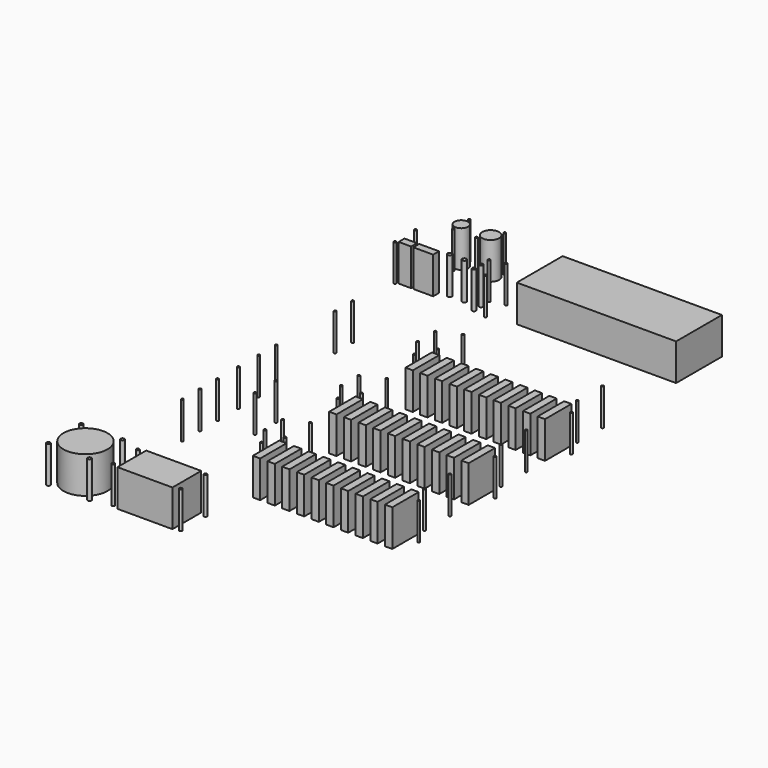
from build123d import *

# Parameters (mm, degrees)
SKETCH001_R         = 1.5
SKETCH001_R_2       = 3
SKETCH001_R_3       = 2.5
SKETCH001_R_4       = 1.6
SKETCH001_W         = 17
SKETCH001_H         = 10
SKETCH001_W_2       = 27
PAD_DEPTH           = 50
SKETCH002_R         = 1.5
SKETCH002_W         = 10
SKETCH002_H         = 45
PAD001_DEPTH        = 50
SKETCH002001_R      = 1.5
SKETCH002001_W      = 10
SKETCH002001_H      = 45
PAD002_DEPTH        = 50
SKETCH002002_R      = 1.5
SKETCH002002_W      = 10
SKETCH002002_H      = 45
PAD003_DEPTH        = 50
SKETCH002003_R      = 1.5
PAD004_DEPTH        = 50
SKETCH002004_R      = 1.5
PAD005_DEPTH        = 50
SKETCH002004001_R   = 1.5
PAD006_DEPTH        = 50
SKETCH002004002_R   = 1.5
PAD007_DEPTH        = 50
SKETCH002004003_W   = 217
SKETCH002004003_H   = 78
PAD008_DEPTH        = 50
SKETCH002004004_R   = 9.3
SKETCH002004004_R_2 = 1.5
SKETCH002004004_R_3 = 11.5
PAD009_DEPTH        = 50
SKETCH002004005_R   = 30
SKETCH002004005_R_2 = 2.5
SKETCH002004005_R_3 = 2
SKETCH002004005_W   = 75
SKETCH002004005_H   = 49
PAD010_DEPTH        = 50


with BuildPart() as pad:
    # Sketch001 → Pad (new body)
    with BuildSketch(Plane.XY):
        with Locations((169.861206, 79.608376)):
            Circle(SKETCH001_R)
        with Locations((169.861206, 44.608376)):
            Circle(SKETCH001_R)
        with Locations((293.361206, 79.608376)):
            Circle(SKETCH001_R)
        with Locations((293.361206, 44.608376)):
            Circle(SKETCH001_R)
        with Locations((233.361206, 58.608376)):
            Circle(SKETCH001_R_2)
        with Locations((253.361206, 58.608376)):
            Circle(SKETCH001_R_2)
        with Locations((274.361206, 48.608376)):
            Circle(SKETCH001_R_3)
        with Locations((274.361206, 60.608376)):
            Circle(SKETCH001_R_3)
        with Locations((274.361206, 74.608376)):
            Circle(SKETCH001_R_4)
        with Locations((181.861206, 51.608376)):
            Rectangle(SKETCH001_W, SKETCH001_H)
        with Locations((206.861206, 51.608376)):
            Rectangle(SKETCH001_W_2, SKETCH001_H)
    extrude(amount=PAD_DEPTH)


with BuildPart() as pad001:
    # Sketch002 → Pad001 (new body)
    with BuildSketch(Plane.XY):
        with Locations((360, -77)):
            Circle(SKETCH002_R)
        with Locations((360, -120)):
            Circle(SKETCH002_R)
        with Locations((550, -77)):
            Circle(SKETCH002_R)
        with Locations((550, -120)):
            Circle(SKETCH002_R)
        with Locations((348, -145)):
            Circle(SKETCH002_R)
        with Locations((562, -145)):
            Circle(SKETCH002_R)
        with Locations((545, -152.5)):
            Rectangle(SKETCH002_W, SKETCH002_H)
        with Locations((525, -152.5)):
            Rectangle(SKETCH002_W, SKETCH002_H)
        with Locations((505, -152.5)):
            Rectangle(SKETCH002_W, SKETCH002_H)
        with Locations((485, -152.5)):
            Rectangle(SKETCH002_W, SKETCH002_H)
        with Locations((465, -152.5)):
            Rectangle(SKETCH002_W, SKETCH002_H)
        with Locations((445, -152.5)):
            Rectangle(SKETCH002_W, SKETCH002_H)
        with Locations((425, -152.5)):
            Rectangle(SKETCH002_W, SKETCH002_H)
        with Locations((405, -152.5)):
            Rectangle(SKETCH002_W, SKETCH002_H)
        with Locations((385, -152.5)):
            Rectangle(SKETCH002_W, SKETCH002_H)
        with Locations((365, -152.5)):
            Rectangle(SKETCH002_W, SKETCH002_H)
    extrude(amount=PAD001_DEPTH)


with BuildPart() as pad002:
    # Sketch002001 → Pad002 (new body)
    with BuildSketch(Plane.XY):
        with Locations((360, -207)):
            Circle(SKETCH002001_R)
        with Locations((360, -250)):
            Circle(SKETCH002001_R)
        with Locations((550, -207)):
            Circle(SKETCH002001_R)
        with Locations((550, -250)):
            Circle(SKETCH002001_R)
        with Locations((348, -275)):
            Circle(SKETCH002001_R)
        with Locations((562, -275)):
            Circle(SKETCH002001_R)
        with Locations((545, -282.5)):
            Rectangle(SKETCH002001_W, SKETCH002001_H)
        with Locations((525, -282.5)):
            Rectangle(SKETCH002001_W, SKETCH002001_H)
        with Locations((505, -282.5)):
            Rectangle(SKETCH002001_W, SKETCH002001_H)
        with Locations((485, -282.5)):
            Rectangle(SKETCH002001_W, SKETCH002001_H)
        with Locations((465, -282.5)):
            Rectangle(SKETCH002001_W, SKETCH002001_H)
        with Locations((445, -282.5)):
            Rectangle(SKETCH002001_W, SKETCH002001_H)
        with Locations((425, -282.5)):
            Rectangle(SKETCH002001_W, SKETCH002001_H)
        with Locations((405, -282.5)):
            Rectangle(SKETCH002001_W, SKETCH002001_H)
        with Locations((385, -282.5)):
            Rectangle(SKETCH002001_W, SKETCH002001_H)
        with Locations((365, -282.5)):
            Rectangle(SKETCH002001_W, SKETCH002001_H)
    extrude(amount=PAD002_DEPTH)


with BuildPart() as pad003:
    # Sketch002002 → Pad003 (new body)
    with BuildSketch(Plane.XY):
        with Locations((360, -337)):
            Circle(SKETCH002002_R)
        with Locations((360, -380)):
            Circle(SKETCH002002_R)
        with Locations((550, -337)):
            Circle(SKETCH002002_R)
        with Locations((550, -380)):
            Circle(SKETCH002002_R)
        with Locations((348, -405)):
            Circle(SKETCH002002_R)
        with Locations((562, -405)):
            Circle(SKETCH002002_R)
        with Locations((545, -412.5)):
            Rectangle(SKETCH002002_W, SKETCH002002_H)
        with Locations((525, -412.5)):
            Rectangle(SKETCH002002_W, SKETCH002002_H)
        with Locations((505, -412.5)):
            Rectangle(SKETCH002002_W, SKETCH002002_H)
        with Locations((485, -412.5)):
            Rectangle(SKETCH002002_W, SKETCH002002_H)
        with Locations((465, -412.5)):
            Rectangle(SKETCH002002_W, SKETCH002002_H)
        with Locations((445, -412.5)):
            Rectangle(SKETCH002002_W, SKETCH002002_H)
        with Locations((425, -412.5)):
            Rectangle(SKETCH002002_W, SKETCH002002_H)
        with Locations((405, -412.5)):
            Rectangle(SKETCH002002_W, SKETCH002002_H)
        with Locations((385, -412.5)):
            Rectangle(SKETCH002002_W, SKETCH002002_H)
        with Locations((365, -412.5)):
            Rectangle(SKETCH002002_W, SKETCH002002_H)
    extrude(amount=PAD003_DEPTH)


with BuildPart() as pad004:
    # Sketch002003 → Pad004 (new body)
    with BuildSketch(Plane.XY):
        with Locations((220, -284.5)):
            Circle(SKETCH002003_R)
        with Locations((271, -284.5)):
            Circle(SKETCH002003_R)
        with Locations((271, -320)):
            Circle(SKETCH002003_R)
        with Locations((220, -320)):
            Circle(SKETCH002003_R)
    extrude(amount=PAD004_DEPTH)


with BuildPart() as pad005:
    # Sketch002004 → Pad005 (new body)
    with BuildSketch(Plane.XY):
        with Locations((220, -350)):
            Circle(SKETCH002004_R)
        with Locations((332.5, -350)):
            Circle(SKETCH002004_R)
        with Locations((332.5, -380)):
            Circle(SKETCH002004_R)
        with Locations((220, -380)):
            Circle(SKETCH002004_R)
    extrude(amount=PAD005_DEPTH)


with BuildPart() as pad006:
    # Sketch002004001 → Pad006 (new body)
    with BuildSketch(Plane.XY):
        with Locations((220, -220)):
            Circle(SKETCH002004001_R)
        with Locations((332.5, -220)):
            Circle(SKETCH002004001_R)
        with Locations((332.5, -250)):
            Circle(SKETCH002004001_R)
        with Locations((220, -250)):
            Circle(SKETCH002004001_R)
    extrude(amount=PAD006_DEPTH)


with BuildPart() as pad007:
    # Sketch002004002 → Pad007 (new body)
    with BuildSketch(Plane.XY):
        with Locations((220, -90)):
            Circle(SKETCH002004002_R)
        with Locations((332.5, -90)):
            Circle(SKETCH002004002_R)
        with Locations((332.5, -120)):
            Circle(SKETCH002004002_R)
        with Locations((220, -120)):
            Circle(SKETCH002004002_R)
    extrude(amount=PAD007_DEPTH)


with BuildPart() as pad008:
    # Sketch002004003 → Pad008 (new body)
    with BuildSketch(Plane.XY):
        with Locations((438.5, 91)):
            Rectangle(SKETCH002004003_W, SKETCH002004003_H)
    extrude(amount=PAD008_DEPTH)


with BuildPart() as pad009:
    # Sketch002004004 → Pad009 (new body)
    with BuildSketch(Plane.XY):
        with Locations((199.928818, 120.016884)):
            Circle(SKETCH002004004_R)
        with Locations((199.928818, 133.516884)):
            Circle(SKETCH002004004_R_2)
        with Locations((199.928818, 106.516884)):
            Circle(SKETCH002004004_R_2)
        with Locations((240, 120)):
            Circle(SKETCH002004004_R_3)
        with Locations((248.5, 133.5)):
            Circle(SKETCH002004004_R_2)
        with Locations((231.5, 106.5)):
            Circle(SKETCH002004004_R_2)
    extrude(amount=PAD009_DEPTH)


with BuildPart() as pad010:
    # Sketch002004005 → Pad010 (new body)
    with BuildSketch(Plane.XY):
        with Locations((200, -520)):
            Circle(SKETCH002004005_R)
        with Locations((172, -492)):
            Circle(SKETCH002004005_R_2)
        with Locations((228, -492)):
            Circle(SKETCH002004005_R_2)
        with Locations((172, -548)):
            Circle(SKETCH002004005_R_2)
        with Locations((228, -548)):
            Circle(SKETCH002004005_R_2)
        with Locations((255.377548, -499.911364)):
            Circle(SKETCH002004005_R_3)
        with Locations((255.377548, -541.911364)):
            Circle(SKETCH002004005_R_3)
        with Locations((347.377548, -499.911364)):
            Circle(SKETCH002004005_R_3)
        with Locations((347.377548, -541.911364)):
            Circle(SKETCH002004005_R_3)
        with Locations((301.377548, -520.911364)):
            Rectangle(SKETCH002004005_W, SKETCH002004005_H)
    extrude(amount=PAD010_DEPTH)


solid = Compound([pad.part, pad001.part, pad002.part, pad003.part, pad004.part, pad005.part, pad006.part, pad007.part, pad008.part, pad009.part, pad010.part])
